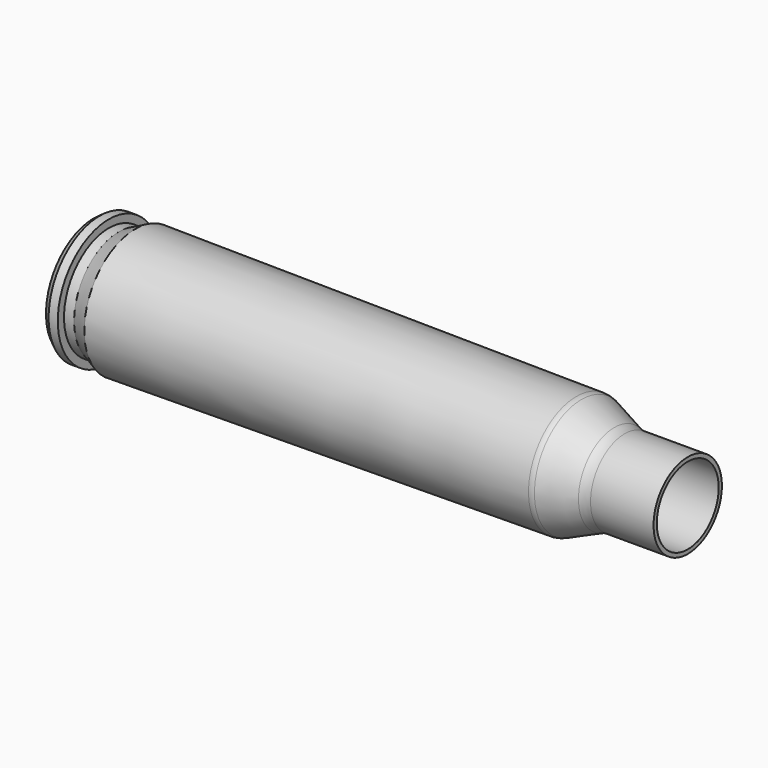
from build123d import *

# Parameters (mm, degrees)
F2_SIZE = 0.25


with BuildPart() as f1:
    # F0 (on Top) → F1 (revolve)
    with BuildSketch(Plane.XY):
        with BuildLine():
            Line((0, 4.484907), (0, 2.22))
            Line((0, 2.22), (2.75, 2.22))
            ThreePointArc((2.75, 2.22), (2.926777, 2.146777), (3, 1.97))
            Line((3, 1.97), (3, 0.85))
            ThreePointArc((3, 0.85), (3.029289, 0.779289), (3.1, 0.75))
            Line((3.1, 0.75), (4.46, 0.75))
            ThreePointArc((4.46, 0.75), (4.530711, 0.779289), (4.56, 0.85))
            Line((4.56, 0.85), (4.56, 3.473314))
            ThreePointArc((4.56, 3.473314), (4.856077, 4.183591), (5.568984, 4.473274))
            Line((5.568984, 4.473274), (36.258126, 4.197541))
            ThreePointArc((36.258126, 4.197541), (36.452751, 4.176633), (36.639574, 4.118212))
            Line((36.639574, 4.118212), (39.113741, 3.068937))
            ThreePointArc((39.113741, 3.068937), (39.496188, 2.950286), (39.894606, 2.9102))
            Line((39.894606, 2.9102), (44.7, 2.9102))
            Line((44.7, 2.9102), (44.7, 3.215))
            Line((44.7, 3.215), (39.956567, 3.215))
            ThreePointArc((39.956567, 3.215), (39.558149, 3.255086), (39.175702, 3.373737))
            Line((39.175702, 3.373737), (36.702847, 4.422456))
            ThreePointArc((36.702847, 4.422456), (36.516023, 4.480877), (36.321398, 4.501784))
            Line((36.321398, 4.501784), (3.13, 4.8))
            Line((3.13, 4.8), (1.9, 4.215))
            Line((1.9, 4.215), (1.14, 4.215))
            Line((1.14, 4.215), (1.14, 4.8))
            Line((1.14, 4.8), (0.45, 4.8))
            Line((0.45, 4.8), (0, 4.484907))
        make_face()
    revolve(axis=Axis((22.35, 0, 0), (-1, 0, 0)))

    # F2
    f2_edges = [f1.edges().sort_by_distance(p)[0] for p in [
        (0, -2.22, 0),
    ]]
    chamfer(f2_edges, length=F2_SIZE)


solid = f1.part
